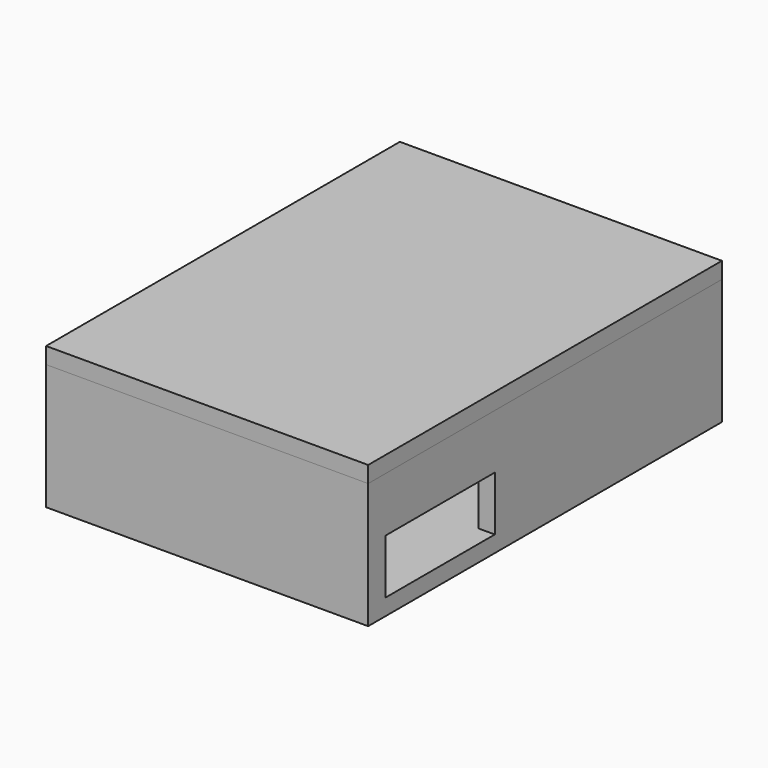
from build123d import *

# Parameters (mm, degrees)
BOX003_W     = 3
BOX003_H     = 25
BOX003_DEPTH = 10
BOX002_W     = 59
BOX002_H     = 81
BOX002_DEPTH = 3
BOX001_W     = 53
BOX001_H     = 75
BOX001_DEPTH = 20
BOX_W        = 59
BOX_H        = 81
BOX_DEPTH    = 20
BOX004_W     = 59
BOX004_H     = 81
BOX004_DEPTH = 3


with BuildPart() as box003:
    # Box003 → Box003 (new body)
    with BuildSketch(Plane(origin=(56, 4, 3), x_dir=(1, 0, 0), z_dir=(0, 0, 1))):
        with Locations((1.5, 12.5)):
            Rectangle(BOX003_W, BOX003_H)
    extrude(amount=BOX003_DEPTH)


with BuildPart() as box002:
    # Box002 → Box002 (new body)
    with BuildSketch(Plane.XY):
        with Locations((29.5, 40.5)):
            Rectangle(BOX002_W, BOX002_H)
    extrude(amount=BOX002_DEPTH)


with BuildPart() as box001:
    # Box001 → Box001 (new body)
    with BuildSketch(Plane(origin=(3, 3, 0), x_dir=(1, 0, 0), z_dir=(0, 0, 1))):
        with Locations((26.5, 37.5)):
            Rectangle(BOX001_W, BOX001_H)
    extrude(amount=BOX001_DEPTH)


with BuildPart() as caja:
    # Box → Box (new body)
    with BuildSketch(Plane.XY):
        with Locations((29.5, 40.5)):
            Rectangle(BOX_W, BOX_H)
    extrude(amount=BOX_DEPTH)

    # Cut: cut Box001
    add(box001.part, mode=Mode.SUBTRACT)


with BuildPart() as caja_1:
    # Cut placement: moved
    add(caja.part.moved(Location((0, 0, 3))))

    # Fusion: union Box002
    add(box002.part)

    # Cut001: cut Box003
    add(box003.part, mode=Mode.SUBTRACT)


with BuildPart() as tapa:
    # Box004 → Box004 (new body)
    with BuildSketch(Plane.XY.offset(23)):
        with Locations((29.5, 40.5)):
            Rectangle(BOX004_W, BOX004_H)
    extrude(amount=BOX004_DEPTH)


solid = Compound([caja_1.part, tapa.part])
